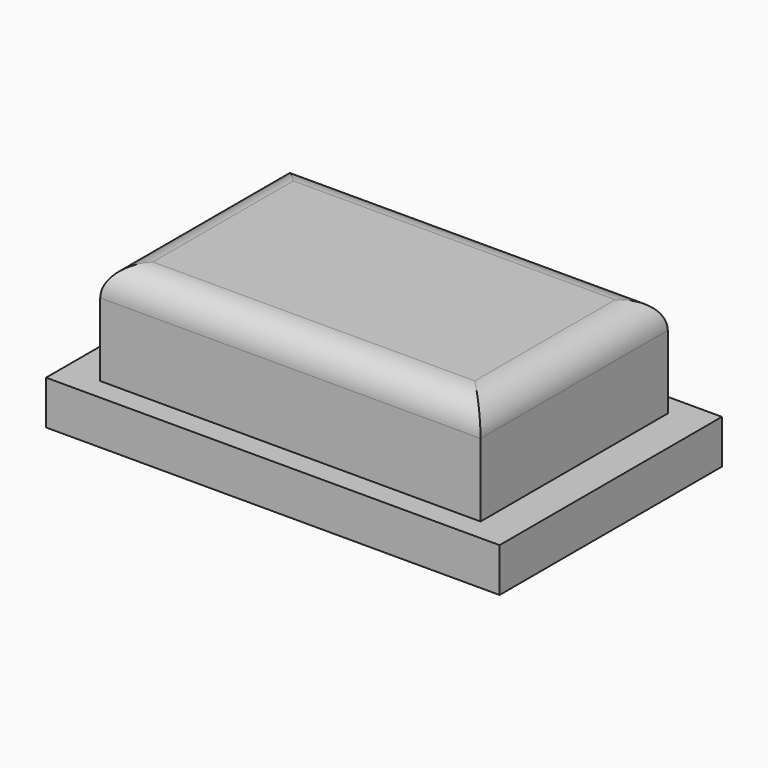
from build123d import *

# Parameters (mm, degrees)
BOX201_W     = 13
BOX201_H     = 8
BOX201_DEPTH = 5
FILLET048_R  = 1
BOX203_W     = 15.5
BOX203_H     = 9.5
BOX203_DEPTH = 1.5


with BuildPart() as fillet048:
    # Box201 → Box201 (new body)
    with BuildSketch(Plane(origin=(44, 20, 6.3), x_dir=(1, 0, 0), z_dir=(0, 0, 1))):
        with Locations((6.5, 4)):
            Rectangle(BOX201_W, BOX201_H)
    extrude(amount=BOX201_DEPTH)

    # Fillet048
    fillet048_edges = [fillet048.edges().sort_by_distance(p)[0] for p in [
        (44, 24, 11.3),
        (57, 24, 11.3),
        (50.5, 20, 11.3),
        (50.5, 28, 11.3),
    ]]
    fillet(fillet048_edges, radius=FILLET048_R)


with BuildPart() as fusion062:
    # Box203 → Box203 (new body)
    with BuildSketch(Plane(origin=(42.75, 19.25, 6.3), x_dir=(1, 0, 0), z_dir=(0, 0, 1))):
        with Locations((7.75, 4.75)):
            Rectangle(BOX203_W, BOX203_H)
    extrude(amount=BOX203_DEPTH)

    # Fusion062: union Fillet048
    add(fillet048.part)


solid = fusion062.part
